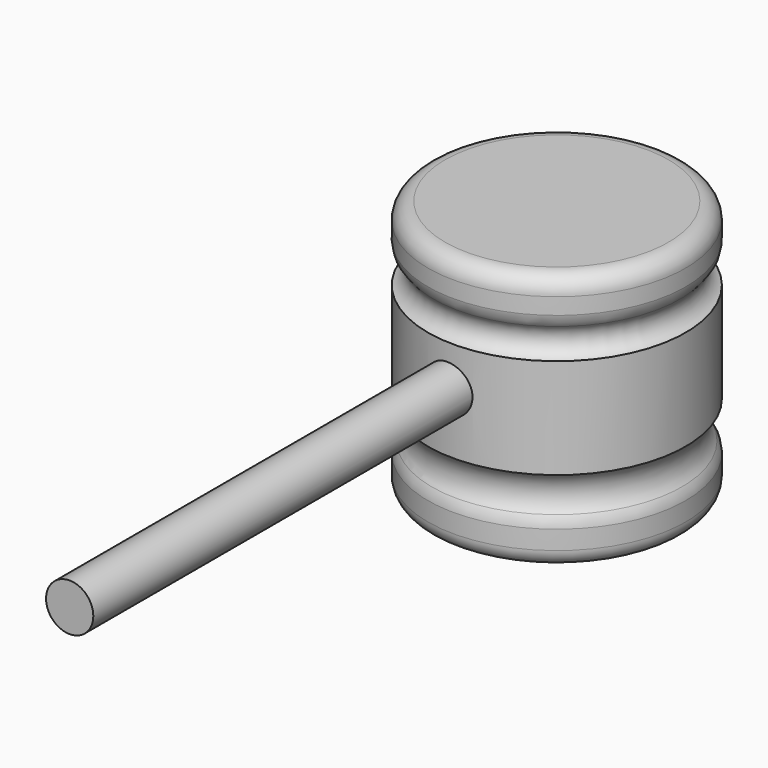
from build123d import *

# Parameters (mm, degrees)
F2_R     = 5.08
F3_R     = 6.985
F4_DEPTH = 177.8


with BuildPart() as f1:
    # F0 (on Front) → F1 (revolve)
    with BuildSketch(Plane.XZ):
        with BuildLine():
            Line((-1.5172553301, 51.4855757356), (-39.6172553301, 51.4855757356))
            Line((-39.6172553301, 51.4855757356), (-39.6172553301, 38.7855757356))
            ThreePointArc((-39.6172553301, 38.7855757356), (-36.369468827, 34.2113286421), (-39.6172553301, 29.6370815486))
            Line((-39.6172553301, 29.6370815486), (-39.6172553301, 0))
            ThreePointArc((-39.6172553301, 0), (-36.7620250915, -6.0072121322), (-39.6172553301, -12.0144242644))
            Line((-39.6172553301, -12.0144242644), (-39.6172553301, -24.7144242644))
            Line((-39.6172553301, -24.7144242644), (-1.5172553301, -24.7144242644))
            Line((-1.5172553301, -24.7144242644), (-1.5172553301, 51.4855757356))
        make_face()
    revolve(axis=Axis((-1.5172553301, 0, 13.3855757356), (0, 0, -1)))

    # F2
    f2_edges = [f1.edges().sort_by_distance(p)[0] for p in [
        (36.582745, 0, 51.485576),
        (36.582745, 0, 38.785576),
        (-39.617255, 0, 45.135576),
        (36.582745, 0, -12.014424),
        (36.582745, 0, -24.714424),
        (-39.617255, 0, -18.364424),
    ]]
    fillet(f2_edges, radius=F2_R)

    # F3 (on Front) → F4 (join)
    with BuildSketch(Plane.XZ):
        with Locations((-3.2368141692, 17.4990277737)):
            Circle(F3_R)
    extrude(amount=F4_DEPTH)


solid = f1.part
